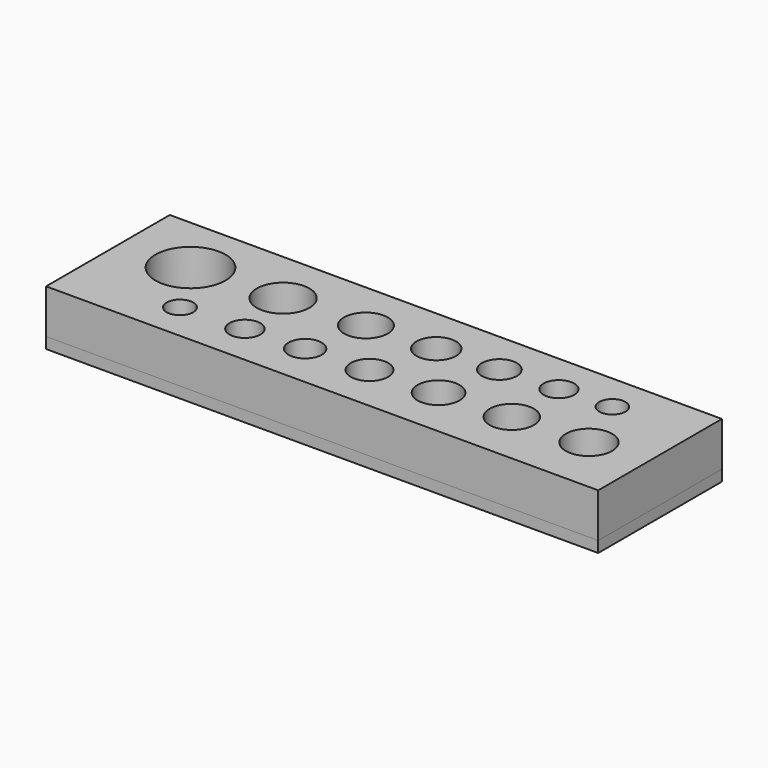
from build123d import *

# Parameters (mm, degrees)
F0_W     = 50
F0_H     = 14
F0_R     = 1.2
F0_R_2   = 1.4
F0_R_3   = 1.5
F0_R_4   = 1.7
F0_R_5   = 1.9
F0_R_6   = 2
F0_R_7   = 2.1
F0_R_8   = 3.175
F0_R_9   = 2.38125
F0_R_10  = 1.984375
F0_R_11  = 1.785938
F0_R_12  = 1.5875
F0_R_13  = 1.389063
F0_R_14  = 1.190625
F1_DEPTH = 1
F2_DEPTH = 4


with BuildPart() as f1:
    # F0 (on Top) → F1 (new body)
    with BuildSketch(Plane.XY):
        Rectangle(F0_W, F0_H)
        with Locations((-15.595789, -3.6)):
            Circle(F0_R, mode=Mode.SUBTRACT)
        with Locations((-9.957262, -3.294432)):
            Circle(F0_R_2, mode=Mode.SUBTRACT)
        with Locations((-4.732812, -3.011305)):
            Circle(F0_R_3, mode=Mode.SUBTRACT)
        with Locations((0.85521, -2.708474)):
            Circle(F0_R_4, mode=Mode.SUBTRACT)
        with Locations((6.844634, -2.38389)):
            Circle(F0_R_5, mode=Mode.SUBTRACT)
        with Locations((13.205981, -2.039151)):
            Circle(F0_R_6, mode=Mode.SUBTRACT)
        with Locations((19.9, -1.676383)):
            Circle(F0_R_7, mode=Mode.SUBTRACT)
        with Locations((-18.825, 1.625)):
            Circle(F0_R_8, mode=Mode.SUBTRACT)
        with Locations((-10.785153, 2.060702)):
            Circle(F0_R_9, mode=Mode.SUBTRACT)
        with Locations((-3.600285, 2.45007)):
            Circle(F0_R_10, mode=Mode.SUBTRACT)
        with Locations((2.505743, 2.780973)):
            Circle(F0_R_11, mode=Mode.SUBTRACT)
        with Locations((7.984038, 3.077857)):
            Circle(F0_R_12, mode=Mode.SUBTRACT)
        with Locations((13.151906, 3.357918)):
            Circle(F0_R_13, mode=Mode.SUBTRACT)
        with Locations((17.791941, 3.609375)):
            Circle(F0_R_14, mode=Mode.SUBTRACT)
        with Locations((-18.825, 1.625)):
            Circle(F0_R_8)
        with Locations((-10.785153, 2.060702)):
            Circle(F0_R_9)
        with Locations((-3.600285, 2.45007)):
            Circle(F0_R_10)
        with Locations((2.505743, 2.780973)):
            Circle(F0_R_11)
        with Locations((7.984038, 3.077857)):
            Circle(F0_R_12)
        with Locations((13.151906, 3.357918)):
            Circle(F0_R_13)
        with Locations((17.791941, 3.609375)):
            Circle(F0_R_14)
        with Locations((-15.595789, -3.6)):
            Circle(F0_R)
        with Locations((-9.957262, -3.294432)):
            Circle(F0_R_2)
        with Locations((-4.732812, -3.011305)):
            Circle(F0_R_3)
        with Locations((0.85521, -2.708474)):
            Circle(F0_R_4)
        with Locations((6.844634, -2.38389)):
            Circle(F0_R_5)
        with Locations((13.205981, -2.039151)):
            Circle(F0_R_6)
        with Locations((19.9, -1.676383)):
            Circle(F0_R_7)
    extrude(amount=-F1_DEPTH)


with BuildPart() as f2:
    # F0 (on Top) → F2 (new body)
    with BuildSketch(Plane.XY):
        Rectangle(F0_W, F0_H)
        with Locations((-15.595789, -3.6)):
            Circle(F0_R, mode=Mode.SUBTRACT)
        with Locations((-9.957262, -3.294432)):
            Circle(F0_R_2, mode=Mode.SUBTRACT)
        with Locations((-4.732812, -3.011305)):
            Circle(F0_R_3, mode=Mode.SUBTRACT)
        with Locations((0.85521, -2.708474)):
            Circle(F0_R_4, mode=Mode.SUBTRACT)
        with Locations((6.844634, -2.38389)):
            Circle(F0_R_5, mode=Mode.SUBTRACT)
        with Locations((13.205981, -2.039151)):
            Circle(F0_R_6, mode=Mode.SUBTRACT)
        with Locations((19.9, -1.676383)):
            Circle(F0_R_7, mode=Mode.SUBTRACT)
        with Locations((-18.825, 1.625)):
            Circle(F0_R_8, mode=Mode.SUBTRACT)
        with Locations((-10.785153, 2.060702)):
            Circle(F0_R_9, mode=Mode.SUBTRACT)
        with Locations((-3.600285, 2.45007)):
            Circle(F0_R_10, mode=Mode.SUBTRACT)
        with Locations((2.505743, 2.780973)):
            Circle(F0_R_11, mode=Mode.SUBTRACT)
        with Locations((7.984038, 3.077857)):
            Circle(F0_R_12, mode=Mode.SUBTRACT)
        with Locations((13.151906, 3.357918)):
            Circle(F0_R_13, mode=Mode.SUBTRACT)
        with Locations((17.791941, 3.609375)):
            Circle(F0_R_14, mode=Mode.SUBTRACT)
    extrude(amount=F2_DEPTH)


solid = Compound([f1.part, f2.part])
